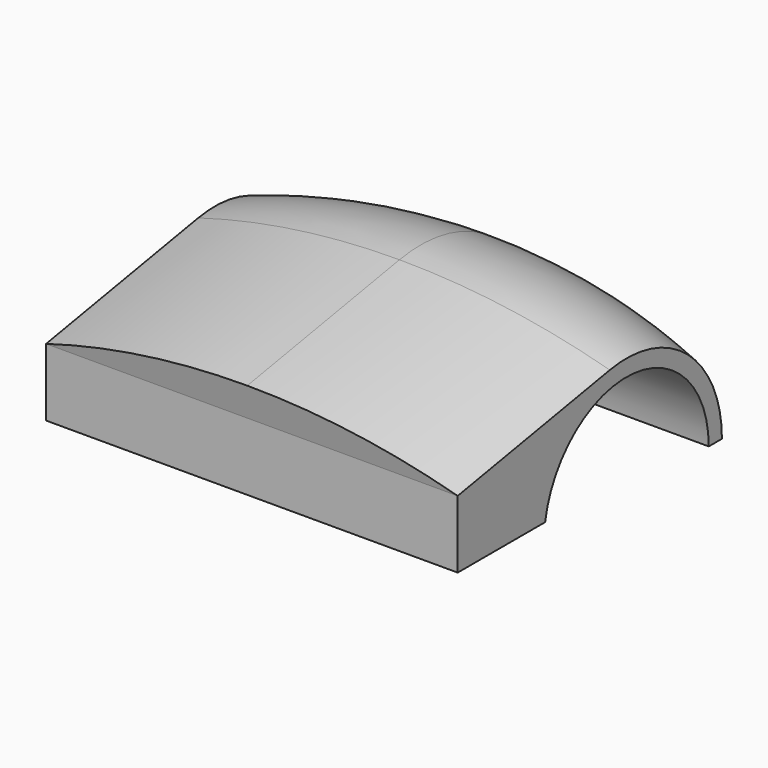
from build123d import *

# Parameters (mm, degrees)
F5_DEPTH = 50


with BuildPart() as f5:
    # F4 (on 3pt) → F5 (new body)
    with BuildSketch(Plane(origin=(-25, 0, 0), x_dir=(0, -1, 0), z_dir=(-1, 0, 0))):
        with BuildLine():
            ThreePointArc((-1.0401698304, 43.2797124187), (6.8786729535, 39.066003665), (10.8033382098, 31))
            Line((10.8033382098, 31), (22.0580684066, 31))
            Line((22.0580684066, 31), (22.0580684066, 39.2068698107))
            Line((22.0580684066, 39.2068698107), (-1.0401698304, 43.2797124187))
        make_face()
        with BuildLine():
            Line((8.7808942727, 31), (10.8033382098, 31))
            ThreePointArc((10.8033382098, 31), (6.8786729535, 39.066003665), (-1.0401698304, 43.2797124187))
            ThreePointArc((-1.0401698304, 43.2797124187), (-12.878488747, 40.1076444252), (-18.0580684066, 29))
            Line((-18.0580684066, 29), (-16.0580684066, 29))
            ThreePointArc((-16.0580684066, 29), (-4.5613047968, 41.4596756276), (8.7808942727, 31))
        make_face()
    extrude(amount=-F5_DEPTH)

    # F6: sweep along a path in F6_path
    with BuildLine(Plane(origin=(25, 18.0580684066, 29), x_dir=(0, 1, 0), z_dir=(-1, 0, 0))) as f6_path:
        ThreePointArc((0, 0), (-5.1795796595, -11.1076444252), (-17.0178985762, -14.2797124187))
        Line((-17.0178985762, -14.2797124187), (-40.1161368131, -10.2068698107))
    # F2 (on offset) → F6 (sweep)
    with BuildSketch(Plane.XY.offset(29)):
        with BuildLine():
            ThreePointArc((25, 18.0580684066), (12.6589889012, 21.0517490389), (0, 22.0580684066))
            ThreePointArc((0, 22.0580684066), (-12.6589889012, 21.0517490389), (-25, 18.0580684066))
            Line((-25, 18.0580684066), (25, 18.0580684066))
        make_face()
    sweep(path=f6_path.line)


solid = f5.part
